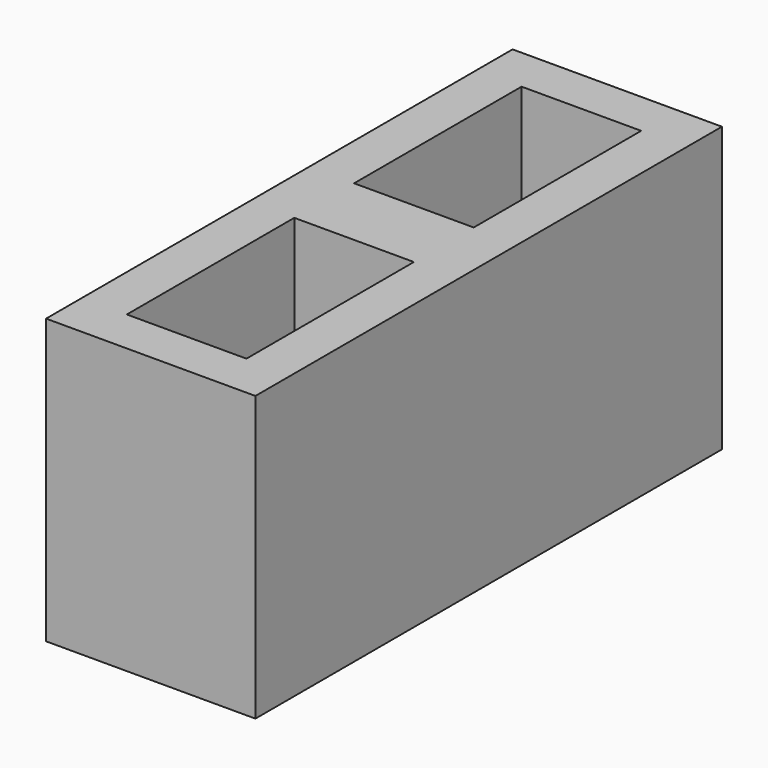
from build123d import *

# Parameters (mm, degrees)
BOX113_W               = 140
BOX113_H               = 80
BOX113_DEPTH           = 190
BOX114_W               = 140
BOX114_H               = 80
BOX114_DEPTH           = 190
BOX115_W               = 390
BOX115_H               = 140
BOX115_DEPTH           = 190
CUT016_PLACEMENT_ANGLE = 90


with BuildPart() as cube085:
    # Box113 → Box113 (new body)
    with BuildSketch(Plane(origin=(220, 30, 0), x_dir=(1, 0, 0), z_dir=(0, 0, 1))):
        with Locations((70, 40)):
            Rectangle(BOX113_W, BOX113_H)
    extrude(amount=BOX113_DEPTH)


with BuildPart() as fusion021:
    # Box114 → Box114 (new body)
    with BuildSketch(Plane(origin=(30, 30, 0), x_dir=(1, 0, 0), z_dir=(0, 0, 1))):
        with Locations((70, 40)):
            Rectangle(BOX114_W, BOX114_H)
    extrude(amount=BOX114_DEPTH)

    # Fusion021: union Cube085
    add(cube085.part)


with BuildPart() as cut016:
    # Box115 → Box115 (new body)
    with BuildSketch(Plane.XY):
        with Locations((195, 70)):
            Rectangle(BOX115_W, BOX115_H)
    extrude(amount=BOX115_DEPTH)

    # Cut016: cut Fusion021
    add(fusion021.part, mode=Mode.SUBTRACT)


with BuildPart() as cut016_1:
    # Cut016 placement: moved
    add(cut016.part.moved(Location((330, 195, -190))).rotate(Axis((330, 195, -190), (0, 0, 1)), CUT016_PLACEMENT_ANGLE))


solid = cut016_1.part
